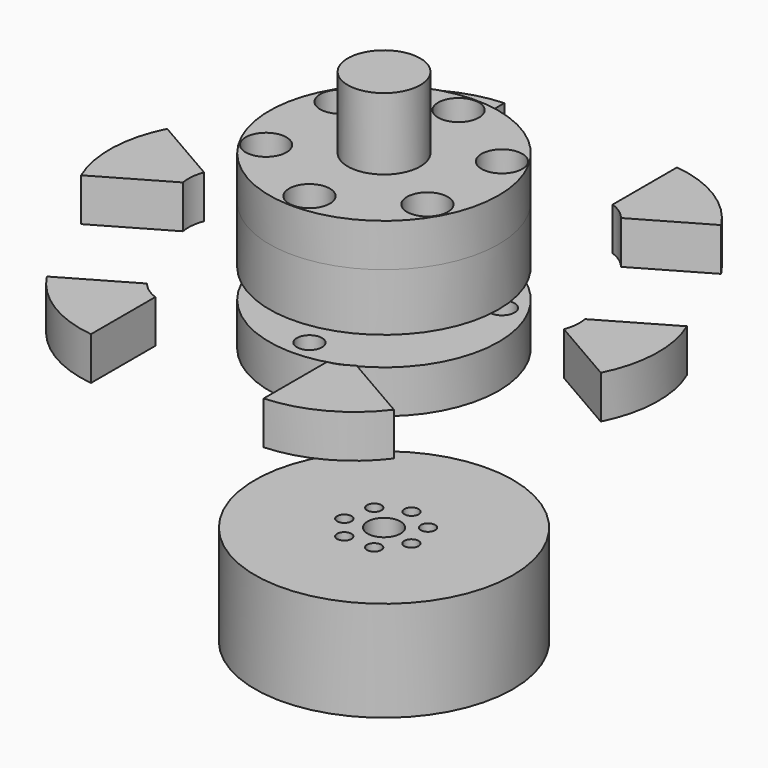
from build123d import *

# Parameters (mm, degrees)
F0_R              = 45
F0_R_2            = 5.75
F1_DEPTH          = 35
F2_R              = 2.5
F3_DEPTH          = 35
F3_TAPER          = -1
F5_R              = 5.75
F6_DEPTH          = 50
F5_R_2            = 2.5
F7_R              = 40
F8_DEPTH          = 20
F9_R              = 40
F10_DEPTH         = 15
F11_R             = 12.65
F12_DEPTH         = 25
F14_R             = 40
F14_R_2           = 2.5
F14_R_3           = 5.75
F15_DEPTH         = 15
F18_DEPTH         = 15
F20_COUNT         = 6
F22_D             = 8.8
F22_DEPTH         = 55
F22_CBORE_D       = 14.25
F22_CBORE_DEPTH   = 20
F22_TIP           = 2.6437867237
F22_2_D           = 8.8
F22_2_DEPTH       = 55
F22_2_CBORE_D     = 14.25
F22_2_CBORE_DEPTH = 20
F22_2_TIP         = 2.6437867237
F22_3_D           = 8.8
F22_3_DEPTH       = 55
F22_3_CBORE_D     = 14.25
F22_3_CBORE_DEPTH = 20
F22_3_TIP         = 2.6437867237
F24_D             = 8.8
F24_DEPTH         = 30
F24_CBORE_D       = 14.25
F24_CBORE_DEPTH   = 8
F24_TIP           = 2.6437867237
F24_2_D           = 8.8
F24_2_DEPTH       = 30
F24_2_CBORE_D     = 14.25
F24_2_CBORE_DEPTH = 8
F24_2_TIP         = 2.6437867237


with BuildPart() as f1:
    # F0 (on Top) → F1 (new body)
    with BuildSketch(Plane.XY):
        Circle(F0_R)
        Circle(F0_R_2, mode=Mode.SUBTRACT)
    extrude(amount=-F1_DEPTH)

    # F2 (on Top) → F3 (cut, through all)
    with BuildSketch(Plane.XY):
        with Locations((0, 12)):
            Circle(F2_R)
        with Locations((-9.3819777896, 7.4818776223)):
            Circle(F2_R)
        with Locations((-11.6991349462, -2.6702512075)):
            Circle(F2_R)
        with Locations((-5.2066048694, -10.8116264148)):
            Circle(F2_R)
        with Locations((5.2066048694, -10.8116264148)):
            Circle(F2_R)
        with Locations((11.6991349462, -2.6702512075)):
            Circle(F2_R)
        with Locations((9.3819777896, 7.4818776223)):
            Circle(F2_R)
    extrude(amount=-F3_DEPTH, taper=F3_TAPER, mode=Mode.SUBTRACT)


with BuildPart() as f6:
    # F5 (on offset) → F6 (new body)
    with BuildSketch(Plane.XY.offset(50)):
        Circle(F5_R)
    extrude(amount=F6_DEPTH)


with BuildPart() as f6b:
    # F5 (on offset) → F6, piece 2 (new body)
    with BuildSketch(Plane.XY.offset(50)):
        with Locations((0, 12)):
            Circle(F5_R_2)
    extrude(amount=F6_DEPTH)


with BuildPart() as f6c:
    # F5 (on offset) → F6, piece 3 (new body)
    with BuildSketch(Plane.XY.offset(50)):
        with Locations((-9.3819777896, 7.4818776223)):
            Circle(F5_R_2)
    extrude(amount=F6_DEPTH)


with BuildPart() as f6d:
    # F5 (on offset) → F6, piece 4 (new body)
    with BuildSketch(Plane.XY.offset(50)):
        with Locations((-11.6991349462, -2.6702512075)):
            Circle(F5_R_2)
    extrude(amount=F6_DEPTH)


with BuildPart() as f6e:
    # F5 (on offset) → F6, piece 5 (new body)
    with BuildSketch(Plane.XY.offset(50)):
        with Locations((-5.2066048694, -10.8116264148)):
            Circle(F5_R_2)
    extrude(amount=F6_DEPTH)


with BuildPart() as f6f:
    # F5 (on offset) → F6, piece 6 (new body)
    with BuildSketch(Plane.XY.offset(50)):
        with Locations((5.2066048694, -10.8116264148)):
            Circle(F5_R_2)
    extrude(amount=F6_DEPTH)


with BuildPart() as f6g:
    # F5 (on offset) → F6, piece 7 (new body)
    with BuildSketch(Plane.XY.offset(50)):
        with Locations((11.6991349462, -2.6702512075)):
            Circle(F5_R_2)
    extrude(amount=F6_DEPTH)


with BuildPart() as f6h:
    # F5 (on offset) → F6, piece 8 (new body)
    with BuildSketch(Plane.XY.offset(50)):
        with Locations((9.3819777896, 7.4818776223)):
            Circle(F5_R_2)
    extrude(amount=F6_DEPTH)


with BuildPart() as f8:
    # F7 (on face) → F8 (new body)
    with BuildSketch(Plane.XY.offset(100)):
        Circle(F7_R)
    extrude(amount=-F8_DEPTH)

    # F22
    with Locations(Plane.XY.offset(115)):
        with Locations((0, -32.5), (28.145825623, 16.25), (-28.145825623, 16.25)):
            CounterBoreHole(F22_D / 2, F22_CBORE_D / 2, F22_CBORE_DEPTH, depth=F22_DEPTH)
            with Locations((0, 0, -(F22_DEPTH + F22_TIP / 2))):  # 118° drill point
                Cone(0, F22_D / 2, F22_TIP, mode=Mode.SUBTRACT)

    # F24
    with Locations(Plane.XY.offset(115)):
        with Locations((0, 32.5), (-28.145825623, -16.25), (28.145825623, -16.25)):
            CounterBoreHole(F24_D / 2, F24_CBORE_D / 2, F24_CBORE_DEPTH, depth=F24_DEPTH)
            with Locations((0, 0, -(F24_DEPTH + F24_TIP / 2))):  # 118° drill point
                Cone(0, F24_D / 2, F24_TIP, mode=Mode.SUBTRACT)


with BuildPart() as f10:
    # F9 (on face) → F10 (new body)
    with BuildSketch(Plane.XY.offset(100)):
        Circle(F9_R)
    extrude(amount=F10_DEPTH)

    # F11 (on face) → F12 (join)
    with BuildSketch(Plane.XY.offset(115)):
        Circle(F11_R)
    extrude(amount=F12_DEPTH)

    # F22#2
    with Locations(Plane.XY.offset(115)):
        with Locations((0, -32.5), (28.145825623, 16.25), (-28.145825623, 16.25)):
            CounterBoreHole(F22_2_D / 2, F22_2_CBORE_D / 2, F22_2_CBORE_DEPTH, depth=F22_2_DEPTH)
            with Locations((0, 0, -(F22_2_DEPTH + F22_2_TIP / 2))):  # 118° drill point
                Cone(0, F22_2_D / 2, F22_2_TIP, mode=Mode.SUBTRACT)

    # F24#2
    with Locations(Plane.XY.offset(115)):
        with Locations((0, 32.5), (-28.145825623, -16.25), (28.145825623, -16.25)):
            CounterBoreHole(F24_2_D / 2, F24_2_CBORE_D / 2, F24_2_CBORE_DEPTH, depth=F24_2_DEPTH)
            with Locations((0, 0, -(F24_2_DEPTH + F24_2_TIP / 2))):  # 118° drill point
                Cone(0, F24_2_D / 2, F24_2_TIP, mode=Mode.SUBTRACT)


with BuildPart() as f15:
    # F14 (on offset) → F15 (new body)
    with BuildSketch(Plane.XY.offset(55)):
        Circle(F14_R)
        with Locations((-5.2066048694, -10.8116264148)):
            Circle(F14_R_2, mode=Mode.SUBTRACT)
        with Locations((-11.6991349462, -2.6702512075)):
            Circle(F14_R_2, mode=Mode.SUBTRACT)
        with Locations((5.2066048694, -10.8116264148)):
            Circle(F14_R_2, mode=Mode.SUBTRACT)
        with Locations((11.6991349462, -2.6702512075)):
            Circle(F14_R_2, mode=Mode.SUBTRACT)
        with Locations((-9.3819777896, 7.4818776223)):
            Circle(F14_R_2, mode=Mode.SUBTRACT)
        Circle(F14_R_3, mode=Mode.SUBTRACT)
        with Locations((9.3819777896, 7.4818776223)):
            Circle(F14_R_2, mode=Mode.SUBTRACT)
        with Locations((0, 12)):
            Circle(F14_R_2, mode=Mode.SUBTRACT)
    extrude(amount=F15_DEPTH)

    # F22#3
    with Locations(Plane.XY.offset(115)):
        with Locations((0, -32.5), (28.145825623, 16.25), (-28.145825623, 16.25)):
            CounterBoreHole(F22_3_D / 2, F22_3_CBORE_D / 2, F22_3_CBORE_DEPTH, depth=F22_3_DEPTH)
            with Locations((0, 0, -(F22_3_DEPTH + F22_3_TIP / 2))):  # 118° drill point
                Cone(0, F22_3_D / 2, F22_3_TIP, mode=Mode.SUBTRACT)


with BuildPart() as f18:
    # F17 (on offset) → F18 (new body)
    with BuildSketch(Plane.XY.offset(70)):
        with BuildLine():
            ThreePointArc((5, 14.1421356237), (8.7050295495, 12.2156645559), (11.7353792759, 9.3424233073))
            Line((11.7353792759, 9.3424233073), (35.6441491482, 23.146158029))
            ThreePointArc((35.6441491482, 23.146158029), (22.4453830834, 36.0895383489), (5, 42.2048575403))
            Line((5, 42.2048575403), (5, 14.1421356237))
        make_face()
    extrude(amount=F18_DEPTH)


with BuildPart() as f18_1:
    # F19: moved
    add(f18.part.moved(Location((26.6010373376, 46.0743482027, 0))))


with BuildPart() as f20_1:
    # F20: instance of F18
    add(f18_1.part.rotate(Axis((0, 0, 70), (0, 0, 1)), 1 * 360 / F20_COUNT))


with BuildPart() as f20_2:
    # F20: instance of F18
    add(f18_1.part.rotate(Axis((0, 0, 70), (0, 0, 1)), 2 * 360 / F20_COUNT))


with BuildPart() as f20_3:
    # F20: instance of F18
    add(f18_1.part.rotate(Axis((0, 0, 70), (0, 0, 1)), 3 * 360 / F20_COUNT))


with BuildPart() as f20_4:
    # F20: instance of F18
    add(f18_1.part.rotate(Axis((0, 0, 70), (0, 0, 1)), 4 * 360 / F20_COUNT))


with BuildPart() as f20_5:
    # F20: instance of F18
    add(f18_1.part.rotate(Axis((0, 0, 70), (0, 0, 1)), 5 * 360 / F20_COUNT))


solid = Compound([f1.part, f6.part, f6b.part, f6c.part, f6d.part, f6e.part, f6f.part, f6g.part, f6h.part, f8.part, f10.part, f15.part, f18_1.part, f20_1.part, f20_2.part, f20_3.part, f20_4.part, f20_5.part])
